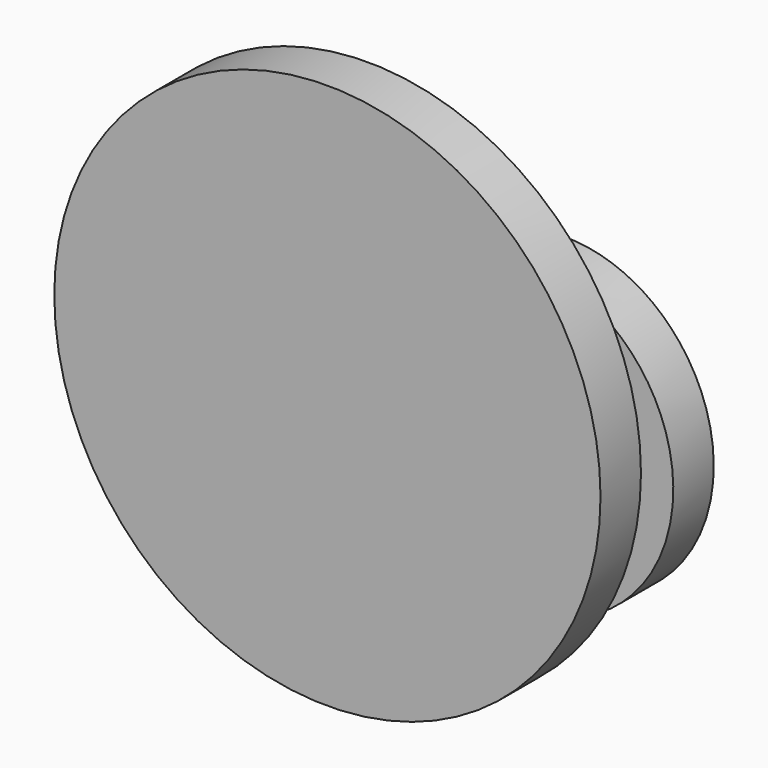
from build123d import *

# Parameters (mm, degrees)
F2_R     = 135.018798
F4_DEPTH = 25


with BuildPart() as f4:
    # F2 (on Front) + F3 (on offset) → F4 (new body)
    with BuildSketch(Plane.XZ):
        Circle(F2_R)
    with BuildSketch(Plane.XZ.offset(-75)):
        with BuildLine():
            add(Edge.make_bspline(
                [(-35.380363, -35.215616), (-35.380363, -166.521582), (74.402809, -100.868599), (184.185982, -35.215616), (74.402809, 30.437367), (-35.380363, 96.090349), (-35.380363, -35.215616)],
                knots=[4.712389, 4.712389, 4.712389, 6.806784, 6.806784, 8.901179, 8.901179, 10.995574, 10.995574, 10.995574], degree=2, weights=[1, 0.5, 1, 0.5, 1, 0.5, 1]))
        make_face()
    extrude(amount=F4_DEPTH)


solid = f4.part
